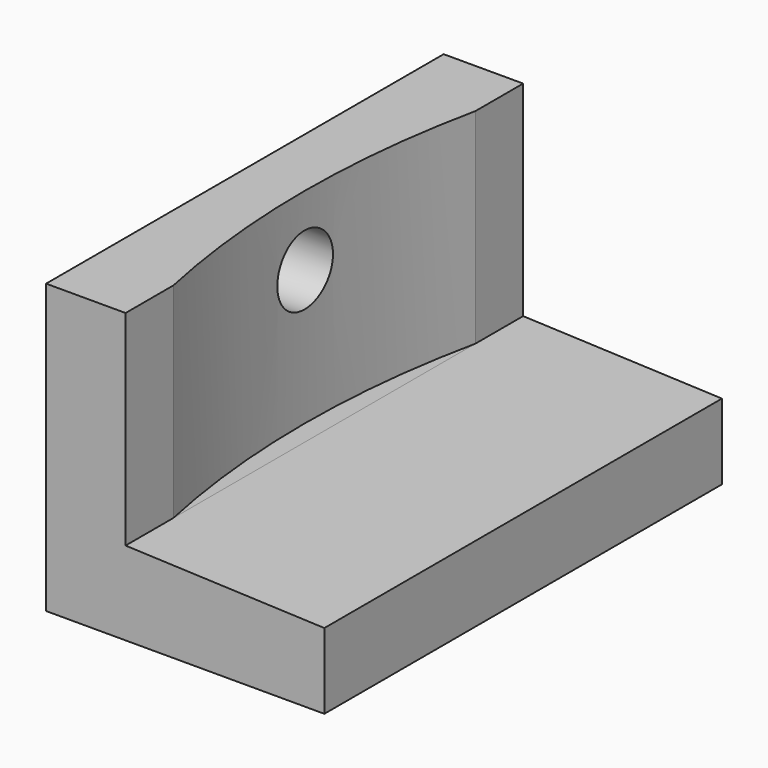
from build123d import *

# Parameters (mm, degrees)
F1_DEPTH = 25
F2_R     = 1.75
F3_DEPTH = 14.001
F5_DEPTH = 10.3


with BuildPart() as f1:
    # F0 (on Front) → F1 (new body)
    with BuildSketch(Plane.XZ):
        Polygon((0, 14.5), (0, 0), (14, 0), (14, 3.8), (4, 4.2), (4, 14.5), align=None)
    extrude(amount=F1_DEPTH)

    # F2 (on face) → F3 (cut, through all)
    with BuildSketch(Plane(origin=(0, 0, 0), x_dir=(0, -1, 0), z_dir=(-1, 0, 0))):
        with Locations((12.5, 11)):
            Circle(F2_R)
    extrude(amount=-F3_DEPTH, mode=Mode.SUBTRACT)

    # F4 (on face) → F5 (cut, through all)
    with BuildSketch(Plane.XY.offset(14.5)):
        with BuildLine():
            Line((4, -22), (4, -3))
            ThreePointArc((4, -3), (3, -12.5), (4, -22))
        make_face()
    extrude(amount=-F5_DEPTH, mode=Mode.SUBTRACT)


solid = f1.part
